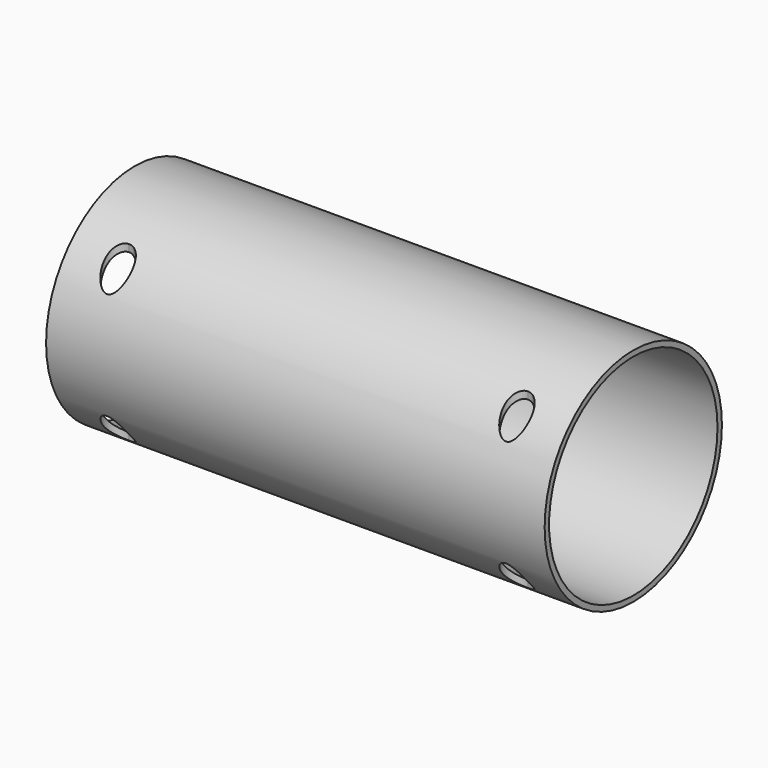
from build123d import *

# Parameters (mm, degrees)
F0_R     = 25.4
F0_R_2   = 24.13
F1_DEPTH = 57.15
F3_DEPTH = 50.8


with BuildPart() as f1:
    # F0 (on Right) → F1 (new body, symmetric)
    with BuildSketch(Plane.YZ):
        with Locations((0, -25.4)):
            Circle(F0_R)
        with Locations((0, -25.4)):
            Circle(F0_R_2, mode=Mode.SUBTRACT)
    extrude(amount=F1_DEPTH, both=True)

    # F2 (on Top) → F3 (cut)
    with BuildSketch(Plane.XY):
        with BuildLine():
            ThreePointArc((48.895, -19.05), (47.9650640303, -16.8049359697), (45.72, -15.875))
            ThreePointArc((45.72, -15.875), (43.4749359697, -21.2950640303), (48.895, -19.05))
        make_face()
        with BuildLine():
            ThreePointArc((-42.545, -19.05), (-43.4749359697, -16.8049359697), (-45.72, -15.875))
            ThreePointArc((-45.72, -15.875), (-47.9650640303, -21.2950640303), (-42.545, -19.05))
        make_face()
    extrude(amount=-F3_DEPTH, mode=Mode.SUBTRACT)


solid = f1.part
